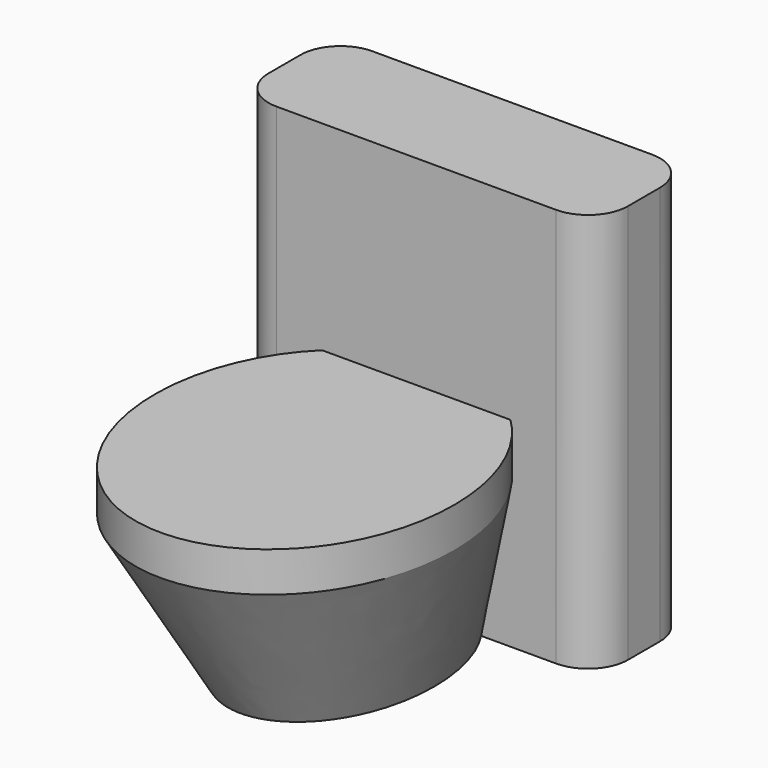
from build123d import *

# Parameters (mm, degrees)
F1_DEPTH = 10
F5_W     = 90
F5_H     = 30
F6_DEPTH = 100
F7_R     = 10


with BuildPart() as f1:
    # F0 (on Top) → F1 (new body)
    with BuildSketch(Plane.XY):
        with BuildLine():
            add(Edge.make_bspline(
                [(0, 45), (-64.951905, 45), (-32.475953, -22.5), (0, -90), (32.475953, -22.5), (64.951905, 45), (0, 45)],
                knots=[0, 0, 0, 2.094395, 2.094395, 4.18879, 4.18879, 6.283185, 6.283185, 6.283185], degree=2, weights=[1, 0.5, 1, 0.5, 1, 0.5, 1]))
        make_face()
    extrude(amount=F1_DEPTH)

    # F3 (on offset) → F4 section 0
    with BuildSketch(Plane.XY.offset(-40)):
        with BuildLine():
            add(Edge.make_bspline(
                [(0, 45), (-38.971143, 45), (-19.485572, -3.75), (0, -52.5), (19.485572, -3.75), (38.971143, 45), (0, 45)],
                knots=[0, 0, 0, 2.094395, 2.094395, 4.18879, 4.18879, 6.283185, 6.283185, 6.283185], degree=2, weights=[1, 0.5, 1, 0.5, 1, 0.5, 1]))
        make_face()
    # F1_face (on face) → F4 section 1
    with BuildSketch(Plane(origin=(0, -0.109148, 0), x_dir=(1, 0, 0), z_dir=(0, 0, -1))):
        with BuildLine():
            add(Edge.make_bspline(
                [(0, -45.109148), (-64.951905, -45.109148), (-32.475953, 22.390852), (0, 89.890852), (32.475953, 22.390852), (64.951905, -45.109148), (0, -45.109148)],
                knots=[0, 0, 0, 2.094395, 2.094395, 4.18879, 4.18879, 6.283185, 6.283185, 6.283185], degree=2, weights=[1, 0.5, 1, 0.5, 1, 0.5, 1]))
        make_face()
    loft()

    # F5 (on offset) → F6 (join)
    with BuildSketch(Plane.XY.offset(-40)):
        with Locations((0, 50)):
            Rectangle(F5_W, F5_H)
    extrude(amount=F6_DEPTH)

    # F7
    f7_edges = [f1.edges().sort_by_distance(p)[0] for p in [
        (-45, 35, 10),
        (-45, 65, 10),
        (45, 35, 10),
        (45, 65, 10),
    ]]
    fillet(f7_edges, radius=F7_R)


solid = f1.part
